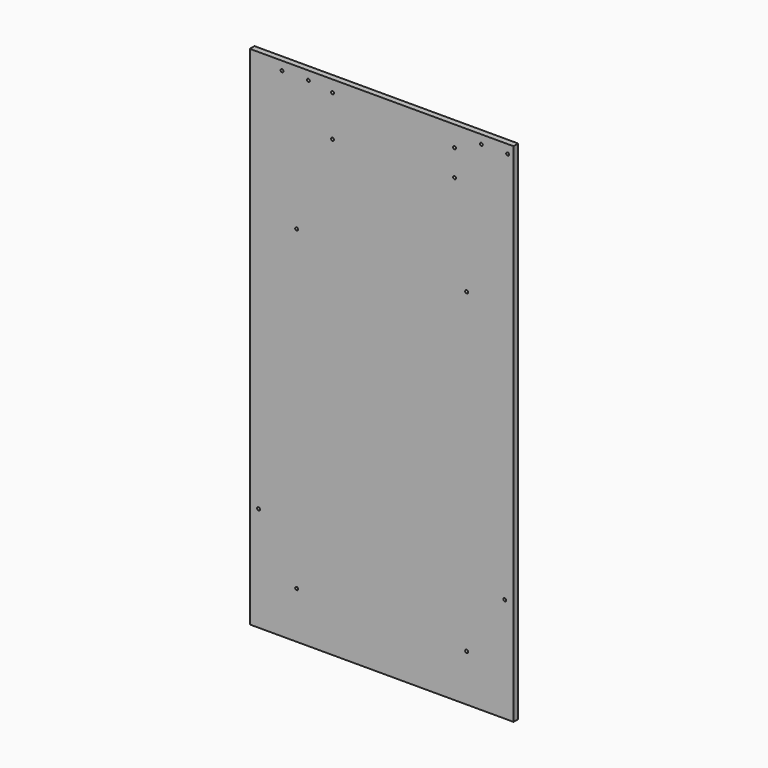
from build123d import *

# Parameters (mm, degrees)
F0_W     = 784.225
F0_H     = 508
F1_DEPTH = 12.7
F3_D     = 6.35
F5_D     = 6.35
F6_DEPTH = 212.725
F8_D     = 6.35
F9_DEPTH = 590.0928
F11_D    = 6.35
F13_D    = 6.35


with BuildPart() as f1:
    # F0 (on Front) → F1 (new body)
    with BuildSketch(Plane.XZ):
        with Locations((392.1125, 254)):
            Rectangle(F0_W, F0_H)
    extrude(amount=F1_DEPTH)

    # F3 (through all)
    with Locations(Plane.XZ.offset(12.7)):
        with Locations((392.1125, 482.6), (392.1125, 393.7)):
            Hole(F3_D / 2)

    # F5 (through all)
    with Locations(Plane.XZ.offset(12.7)):
        with Locations((771.525, 488.95), (714.375, 488.95), (339.725, 488.95), (282.575, 488.95)):
            Hole(F5_D / 2)

    # F6 (cut): a face of the model
    f6_faces = [f1.faces().sort_by_distance(p)[0] for p in [
        (0, -6.35, 254),
    ]]
    extrude(f6_faces, amount=-F6_DEPTH, mode=Mode.SUBTRACT)

    # F8 (through all)
    with Locations(Plane.XZ.offset(12.7)):
        with Locations((656.5392, 463.55), (656.5392, 406.4)):
            Hole(F8_D / 2)

    # F9 (add): a face of the model
    f9_faces = [f1.faces().sort_by_distance(p)[0] for p in [
        (498.475, -6.35, 0),
    ]]
    extrude(f9_faces, amount=F9_DEPTH)

    # F11 (through all)
    with Locations(Plane.XZ.offset(12.7)):
        with Locations((231.775, -363.3978), (765.175, -363.3978)):
            Hole(F11_D / 2)

    # F13 (through all)
    with Locations(Plane.XZ.offset(12.7)):
        with Locations((682.625, 197.3072), (314.325, 197.3072), (314.325, -488.4928), (682.625, -488.4928)):
            Hole(F13_D / 2)


solid = f1.part
